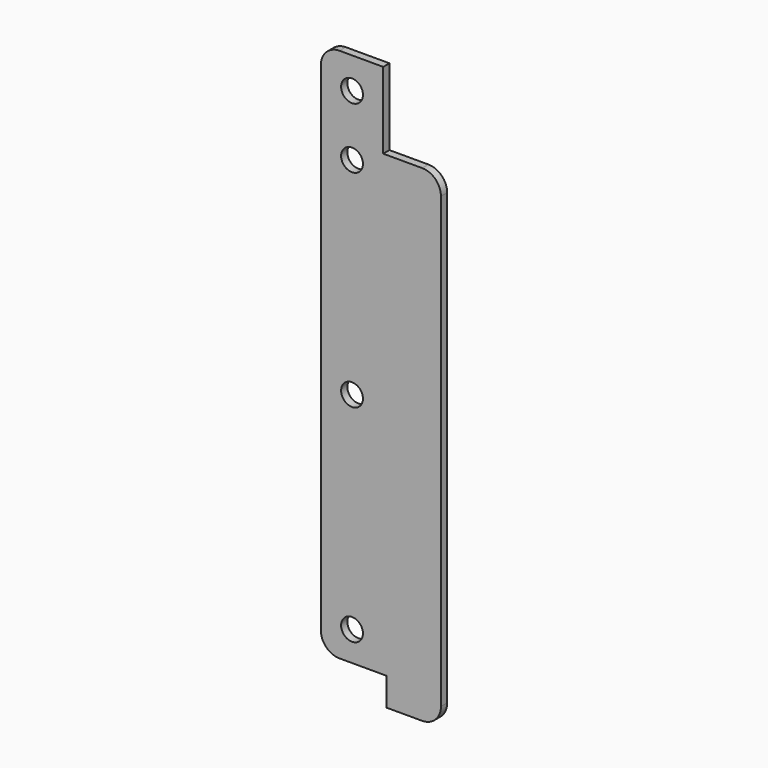
from build123d import *

# Parameters (mm, degrees)
F0_R     = 7
F1_DEPTH = 5


with BuildPart() as f1:
    # F0 (on Front) → F1 (new body)
    with BuildSketch(Plane.XZ):
        with BuildLine():
            Line((0, 331), (0, 12))
            ThreePointArc((0, 12), (3.514719, 3.514719), (12, 0))
            Line((12, 0), (42, 0))
            Line((42, 0), (42, -18))
            Line((42, -18), (65, -18))
            ThreePointArc((65, -18), (73.485281, -14.485281), (77, -6))
            Line((77, -6), (77, 282))
            ThreePointArc((77, 282), (73.485281, 290.485281), (65, 294))
            Line((65, 294), (40, 294))
            Line((40, 294), (40, 343))
            Line((40, 343), (12, 343))
            ThreePointArc((12, 343), (3.514719, 339.485281), (0, 331))
        make_face()
        with Locations((20, 19)):
            Circle(F0_R, mode=Mode.SUBTRACT)
        with Locations((20, 151.5)):
            Circle(F0_R, mode=Mode.SUBTRACT)
        with Locations((20, 284)):
            Circle(F0_R, mode=Mode.SUBTRACT)
        with Locations((20, 323)):
            Circle(F0_R, mode=Mode.SUBTRACT)
    extrude(amount=F1_DEPTH)


solid = f1.part
